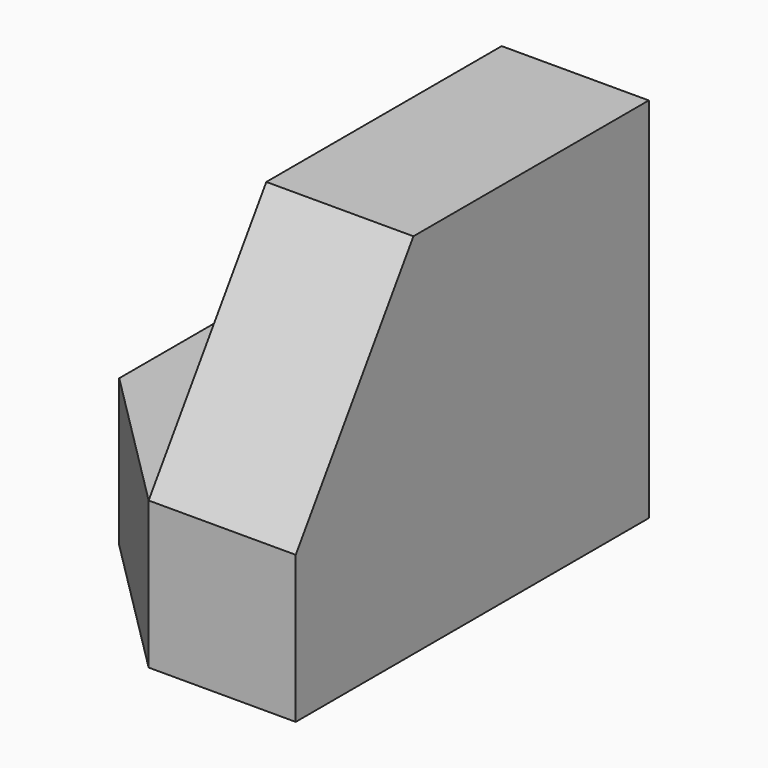
from build123d import *

# Parameters (mm, degrees)
F1_DEPTH = 38.1
F3_DEPTH = 25.4
F5_DEPTH = 25.4


with BuildPart() as f1:
    # F0 (on Front) → F1 (new body)
    with BuildSketch(Plane.XZ):
        Polygon((0, 12.7), (0, 0), (25.4, 0), (25.4, 31.75), (12.7, 31.75), (12.7, 12.7), align=None)
    extrude(amount=F1_DEPTH)

    # F2 (on face) → F3 (cut)
    with BuildSketch(Plane.YZ.offset(25.4)):
        Polygon((-38.1, 12.7), (-25.4, 31.75), (-38.1, 31.75), align=None)
    extrude(amount=-F3_DEPTH, mode=Mode.SUBTRACT)

    # F4 (on face) → F5 (cut)
    with BuildSketch(Plane.XY.offset(12.7)):
        Polygon((0, -38.1), (12.7, -38.1), (0, -25.4), align=None)
    extrude(amount=-F5_DEPTH, mode=Mode.SUBTRACT)


solid = f1.part
